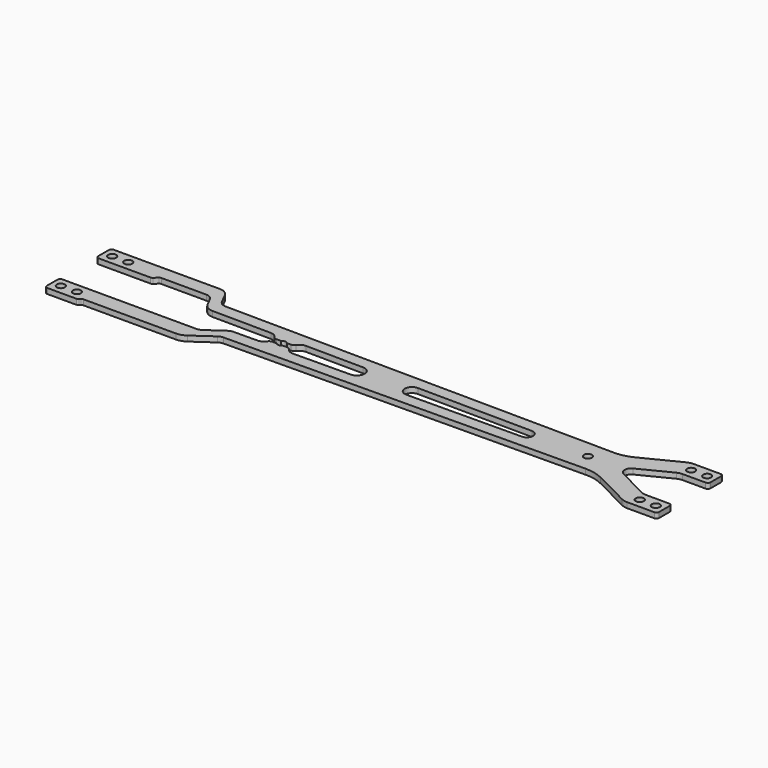
from build123d import *

# Parameters (mm, degrees)
F0_R     = 1.5
F1_DEPTH = 2


with BuildPart() as f1:
    # F0 (on Top) → F1 (new body)
    with BuildSketch(Plane.XY):
        with BuildLine():
            ThreePointArc((-19.197627, 1), (-18.079593, 1.5), (-16.961559, 1))
            Line((-16.961559, 1), (-15.341597, 1))
            ThreePointArc((-15.341597, 1), (-14.624629, 1.182443), (-14.082068, 1.685392))
            ThreePointArc((-14.082068, 1.685392), (-12.946894, 2.732812), (-11.447412, 3.103307))
            Line((-11.447412, 3.103307), (10.042908, 2.904272))
            ThreePointArc((10.042908, 2.904272), (12.920407, 0), (10.042908, -2.904272))
            Line((10.042908, -2.904272), (-11.447412, -3.103307))
            ThreePointArc((-11.447412, -3.103307), (-12.946894, -2.732812), (-14.082068, -1.685392))
            ThreePointArc((-14.082068, -1.685392), (-14.624629, -1.182443), (-15.341597, -1))
            Line((-15.341597, -1), (-16.961559, -1))
            ThreePointArc((-16.961559, -1), (-18.079593, -1.5), (-19.197627, -1))
            Line((-19.197627, -1), (-20.817589, -1))
            ThreePointArc((-20.817589, -1), (-21.534557, -1.182443), (-22.077118, -1.685392))
            ThreePointArc((-22.077118, -1.685392), (-23.187047, -2.719074), (-24.654291, -3.103307))
            Line((-24.654291, -3.103307), (-33.636647, -3.186497))
            ThreePointArc((-33.636647, -3.186497), (-34.524221, -3.329426), (-35.329593, -3.728912))
            Line((-35.329593, -3.728912), (-41.368579, -7.957456))
            ThreePointArc((-41.368579, -7.957456), (-42.187191, -8.361151), (-43.089309, -8.5))
            Line((-43.089309, -8.5), (-93.329593, -8.5))
            ThreePointArc((-93.329593, -8.5), (-94.0367, -8.792893), (-94.329593, -9.5))
            Line((-94.329593, -9.5), (-94.329593, -14.5))
            ThreePointArc((-94.329593, -14.5), (-94.0367, -15.207107), (-93.329593, -15.5))
            Line((-93.329593, -15.5), (-82.493807, -15.5))
            ThreePointArc((-82.493807, -15.5), (-82.111123, -15.42388), (-81.7867, -15.207107))
            Line((-81.7867, -15.207107), (-81.372486, -14.792893))
            ThreePointArc((-81.372486, -14.792893), (-81.048063, -14.57612), (-80.66538, -14.5))
            Line((-80.66538, -14.5), (-46.066168, -14.5))
            ThreePointArc((-46.066168, -14.5), (-44.261933, -14.222302), (-42.624709, -13.414912))
            Line((-42.624709, -13.414912), (-35.361857, -8.329409))
            ThreePointArc((-35.361857, -8.329409), (-34.556484, -7.929922), (-33.668911, -7.786993))
            Line((-33.668911, -7.786993), (100.835377, -6.541272))
            ThreePointArc((100.835377, -6.541272), (104.379181, -6.932181), (107.730626, -8.148393))
            Line((107.730626, -8.148393), (121.240512, -14.964079))
            ThreePointArc((121.240512, -14.964079), (122.335124, -15.364175), (123.492622, -15.5))
            Line((123.492622, -15.5), (133.670407, -15.5))
            ThreePointArc((133.670407, -15.5), (134.377514, -15.207107), (134.670407, -14.5))
            Line((134.670407, -14.5), (134.670407, -9.5))
            ThreePointArc((134.670407, -9.5), (134.377514, -8.792893), (133.670407, -8.5))
            Line((133.670407, -8.5), (124.920407, -8.5))
            ThreePointArc((124.920407, -8.5), (123.994408, -8.39134), (123.118718, -8.071263))
            Line((123.118718, -8.071263), (111.544352, -2.232039))
            ThreePointArc((111.544352, -2.232039), (110.170407, 0), (111.544352, 2.232039))
            Line((111.544352, 2.232039), (123.118718, 8.071263))
            ThreePointArc((123.118718, 8.071263), (123.994408, 8.39134), (124.920407, 8.5))
            Line((124.920407, 8.5), (133.670407, 8.5))
            ThreePointArc((133.670407, 8.5), (134.377514, 8.792893), (134.670407, 9.5))
            Line((134.670407, 9.5), (134.670407, 14.5))
            ThreePointArc((134.670407, 14.5), (134.377514, 15.207107), (133.670407, 15.5))
            Line((133.670407, 15.5), (123.492622, 15.5))
            ThreePointArc((123.492622, 15.5), (122.335124, 15.364175), (121.240512, 14.964079))
            Line((121.240512, 14.964079), (107.730626, 8.148393))
            ThreePointArc((107.730626, 8.148393), (104.379181, 6.932181), (100.835377, 6.541272))
            Line((100.835377, 6.541272), (-45.436336, 7.895978))
            ThreePointArc((-45.436336, 7.895978), (-46.986025, 8.34407), (-48.079593, 9.530001))
            Line((-48.079593, 9.530001), (-50.018206, 13.321132))
            ThreePointArc((-50.018206, 13.321132), (-51.492074, 14.912076), (-53.579593, 15.5))
            Line((-53.579593, 15.5), (-93.329593, 15.5))
            ThreePointArc((-93.329593, 15.5), (-94.0367, 15.207107), (-94.329593, 14.5))
            Line((-94.329593, 14.5), (-94.329593, 9.5))
            ThreePointArc((-94.329593, 9.5), (-94.0367, 8.792893), (-93.329593, 8.5))
            Line((-93.329593, 8.5), (-73.90802, 8.5))
            ThreePointArc((-73.90802, 8.5), (-73.525337, 8.57612), (-73.200914, 8.792893))
            Line((-73.200914, 8.792893), (-72.0367, 9.957107))
            ThreePointArc((-72.0367, 9.957107), (-71.712277, 10.17388), (-71.329593, 10.25))
            Line((-71.329593, 10.25), (-54.49502, 10.25))
            ThreePointArc((-54.49502, 10.25), (-52.929381, 9.809057), (-51.82398, 8.615849))
            Line((-51.82398, 8.615849), (-50.223606, 5.486174))
            ThreePointArc((-50.223606, 5.486174), (-48.765515, 3.904933), (-46.699263, 3.307478))
            Line((-46.699263, 3.307478), (-24.654291, 3.103307))
            ThreePointArc((-24.654291, 3.103307), (-23.187047, 2.719074), (-22.077118, 1.685392))
            ThreePointArc((-22.077118, 1.685392), (-21.534557, 1.182443), (-20.817589, 1))
            Line((-20.817589, 1), (-19.197627, 1))
        make_face()
        with Locations((-91.079593, -12)):
            Circle(F0_R, mode=Mode.SUBTRACT)
        with Locations((-85.079593, -12)):
            Circle(F0_R, mode=Mode.SUBTRACT)
        with Locations((125.420407, -12)):
            Circle(F0_R, mode=Mode.SUBTRACT)
        with Locations((131.420407, -12)):
            Circle(F0_R, mode=Mode.SUBTRACT)
        with BuildLine():
            ThreePointArc((73.626358, 2.315394), (75.920407, 0), (73.626358, -2.315394))
            Line((73.626358, -2.315394), (30.658988, -2.713339))
            ThreePointArc((30.658988, -2.713339), (27.920407, 2e-06), (30.658992, 2.713339))
            Line((30.658992, 2.713339), (73.626358, 2.315394))
        make_face(mode=Mode.SUBTRACT)
        with Locations((-91.079593, 12)):
            Circle(F0_R, mode=Mode.SUBTRACT)
        with Locations((-85.079593, 12)):
            Circle(F0_R, mode=Mode.SUBTRACT)
        with Locations((96.420407, 0)):
            Circle(F0_R, mode=Mode.SUBTRACT)
        with Locations((125.420407, 12)):
            Circle(F0_R, mode=Mode.SUBTRACT)
        with Locations((131.420407, 12)):
            Circle(F0_R, mode=Mode.SUBTRACT)
    extrude(amount=F1_DEPTH)


solid = f1.part
